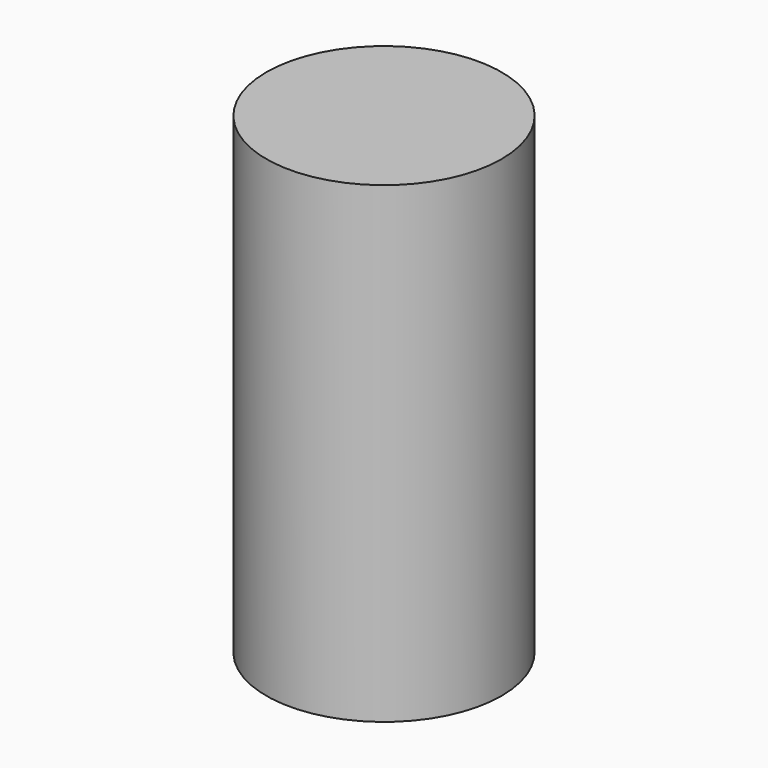
from build123d import *

# Parameters (mm, degrees)
F1_R     = 31.619062
F2_DEPTH = 127
F0_R     = 26.272164
F3_DEPTH = 120.65


with BuildPart() as f2:
    # F1 (on Top) → F2 (new body)
    with BuildSketch(Plane.XY):
        Circle(F1_R)
    extrude(amount=F2_DEPTH)

    # F0 (on Top) → F3 (cut)
    with BuildSketch(Plane.XY):
        Circle(F0_R)
    extrude(amount=-F3_DEPTH, mode=Mode.SUBTRACT)


solid = f2.part
